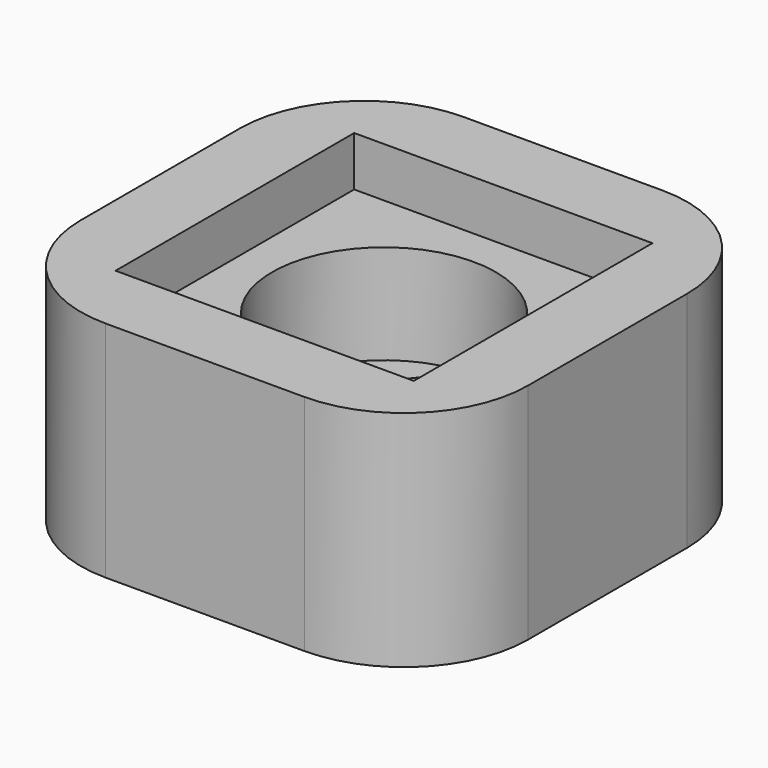
from build123d import *

# Parameters (mm, degrees)
F0_W     = 12
F0_H     = 12
F0_R     = 4.5
F1_DEPTH = 7
F0_W_2   = 18
F0_H_2   = 18
F2_DEPTH = 9
F3_R     = 5
F0_R_2   = 2.5
F4_DEPTH = 3


with BuildPart() as f1:
    # F0 (on Top) → F1 (new body)
    with BuildSketch(Plane.XY):
        with Locations((-4.236515, -1.281935)):
            Rectangle(F0_W, F0_H)
        with Locations((-4.236515, -1.281935)):
            Circle(F0_R, mode=Mode.SUBTRACT)
    extrude(amount=F1_DEPTH)

    # F0 (on Top) → F2 (join)
    with BuildSketch(Plane.XY):
        with Locations((-4.236515, -1.281935)):
            Rectangle(F0_W_2, F0_H_2)
        with Locations((-4.236515, -1.281935)):
            Rectangle(F0_W, F0_H, mode=Mode.SUBTRACT)
    extrude(amount=F2_DEPTH)

    # F3
    f3_edges = [f1.edges().sort_by_distance(p)[0] for p in [
        (-13.236515, -10.281935, 4.5),
        (4.763485, -10.281935, 4.5),
        (4.763485, 7.718065, 4.5),
        (-13.236515, 7.718065, 4.5),
    ]]
    fillet(f3_edges, radius=F3_R)

    # F0 (on Top) → F4 (join)
    with BuildSketch(Plane.XY):
        with Locations((-4.236515, -1.281935)):
            Circle(F0_R)
        with Locations((-4.236515, -1.281935)):
            Circle(F0_R_2, mode=Mode.SUBTRACT)
    extrude(amount=F4_DEPTH)


solid = f1.part
